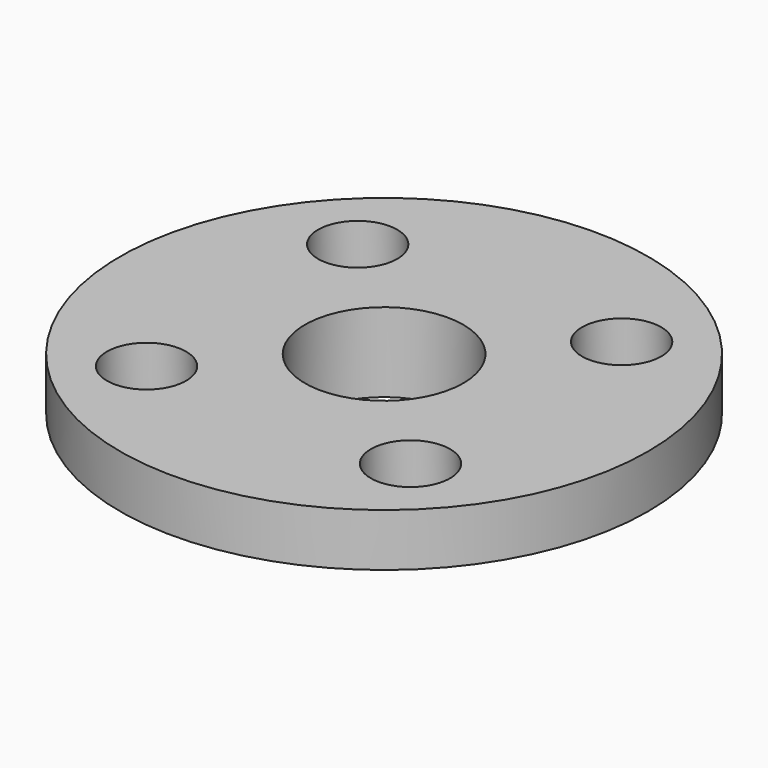
from build123d import *

# Parameters (mm, degrees)
F0_R     = 10
F0_R_2   = 3
F1_DEPTH = 2
F3_D     = 3
F4_R     = 4
F4_R_2   = 3
F5_DEPTH = 1


with BuildPart() as f1:
    # F0 (on Top) → F1 (new body)
    with BuildSketch(Plane.XY):
        Circle(F0_R)
        Circle(F0_R_2, mode=Mode.SUBTRACT)
    extrude(amount=F1_DEPTH)

    # F3 (through all)
    with Locations(Plane.XY.offset(2)):
        with Locations((-5, 5), (5, 5), (5, -5), (-5, -5)):
            Hole(F3_D / 2)

    # F4 (on face) → F5 (join)
    with BuildSketch(Plane(origin=(0, 0, 0), x_dir=(1, 0, 0), z_dir=(0, 0, -1))):
        Circle(F4_R)
        Circle(F4_R_2, mode=Mode.SUBTRACT)
    extrude(amount=F5_DEPTH)


solid = f1.part
